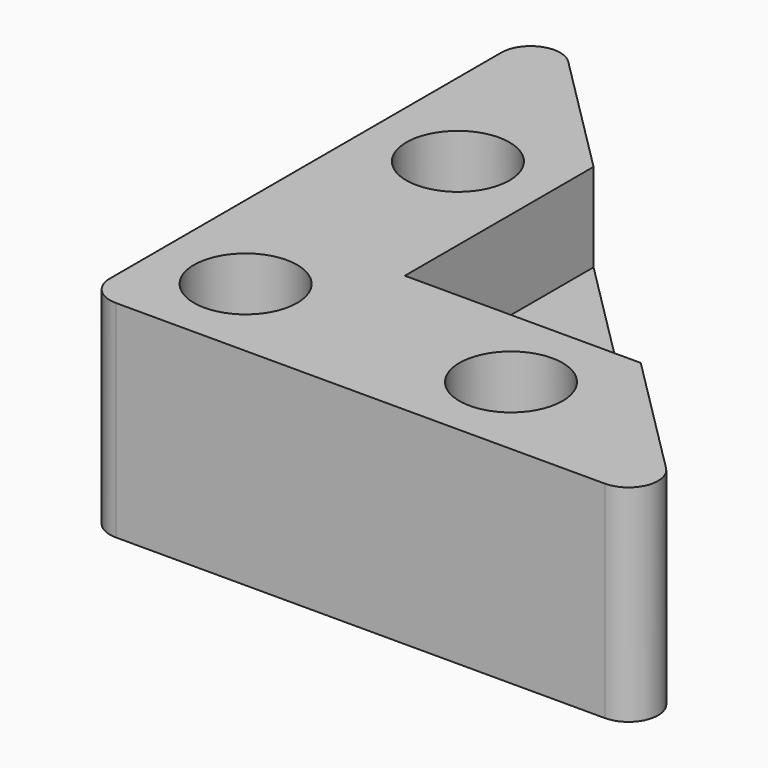
from build123d import *

# Parameters (mm, degrees)
PAD_DEPTH       = 7
POCKET_DEPTH    = 3
SKETCH002_R     = 1.75
POCKET001_DEPTH = 7.001
FILLET_R        = 1
CHAMFER_SIZE    = 1


with BuildPart() as part:
    # Sketch → Pad (new body)
    with BuildSketch(Plane.XY):
        Polygon((0, 20), (0, 0), (20, 0), align=None)
    extrude(amount=PAD_DEPTH)

    # Sketch001 (on Face5 of Pad) → Pocket (cut)
    with BuildSketch(Plane.XY.offset(7)):
        Polygon((6, 14), (6, 6), (14, 6), align=None)
    extrude(amount=-POCKET_DEPTH, mode=Mode.SUBTRACT)

    # Sketch002 (on Face5 of Pocket) → Pocket001 (cut, through all)
    with BuildSketch(Plane.XY.offset(7)):
        with Locations((3, 3)):
            Circle(SKETCH002_R)
        with Locations((12, 3)):
            Circle(SKETCH002_R)
        with Locations((3, 12)):
            Circle(SKETCH002_R)
    extrude(amount=-POCKET001_DEPTH, mode=Mode.SUBTRACT)

    # Fillet
    fillet_edges = [part.edges().sort_by_distance(p)[0] for p in [
        (0, 0, 3.5),
        (20, 0, 3.5),
        (0, 20, 3.5),
    ]]
    fillet(fillet_edges, radius=FILLET_R)

    # Chamfer
    chamfer_edges = [part.edges().sort_by_distance(p)[0] for p in [
        (1.25, 12, 0),
        (10.25, 3, 0),
        (1.25, 3, 0),
    ]]
    chamfer(chamfer_edges, length=CHAMFER_SIZE)


solid = part.part
